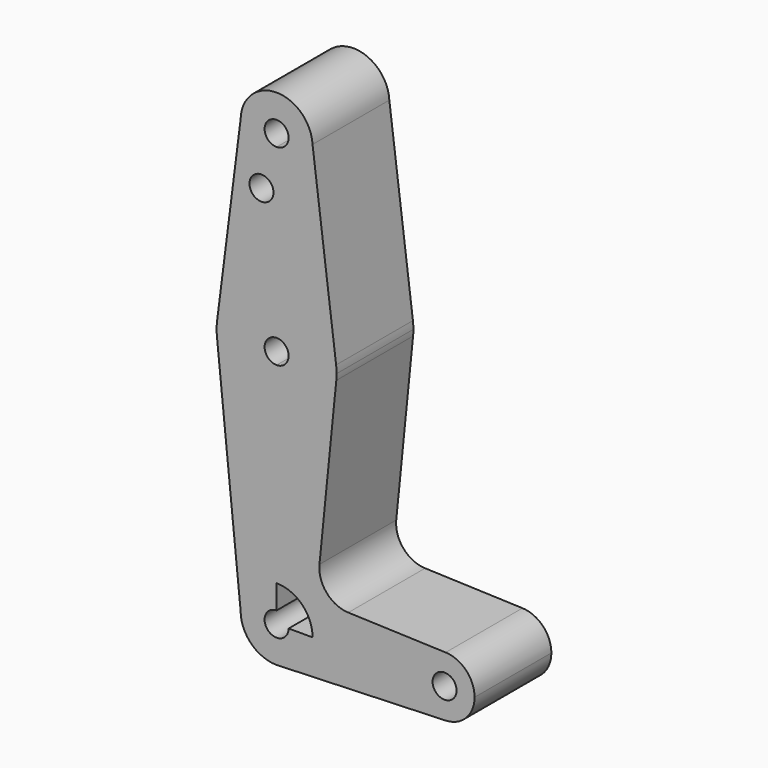
from build123d import *

# Parameters (mm, degrees)
F0_R     = 3.175
F1_DEPTH = 25.4


with BuildPart() as f1:
    # F0 (on Front) → F1 (new body)
    with BuildSketch(Plane.XZ):
        with BuildLine():
            Line((9.525, 0), (3.175, 0))
            ThreePointArc((3.175, 0), (-2.245064, -2.245064), (0, 3.175))
            Line((0, 3.175), (0, 9.525))
            ThreePointArc((0, 9.525), (-6.735192, 6.735192), (-9.525, 0))
            ThreePointArc((-9.525, 0), (-6.735192, -6.735192), (0, -9.525))
            Line((0, -9.525), (0.677344, -9.500886))
            ThreePointArc((0.677344, -9.500886), (6.970557, -6.491299), (9.525, 0))
        make_face()
        with BuildLine():
            ThreePointArc((0, 9.525), (6.735192, 6.735192), (9.525, 0))
            Line((9.525, 0), (36.5125, 0))
            ThreePointArc((36.5125, 0), (38.93809, 5.711633), (44.732405, 7.932475))
            Line((44.732405, 7.932475), (18.968326, 8.849706))
            ThreePointArc((18.968326, 8.849706), (13.261203, 11.567463), (11.340834, 17.589892))
            Line((11.340834, 17.589892), (15.794203, 61.90038))
            ThreePointArc((15.794203, 61.90038), (10.644756, 51.7227), (0, 47.625))
            Line((0, 47.625), (0, 9.525))
        make_face()
        with BuildLine():
            Line((36.5125, 0), (9.525, 0))
            ThreePointArc((9.525, 0), (6.970557, -6.491299), (0.677344, -9.500886))
            Line((0.677344, -9.500886), (44.732405, -7.932475))
            ThreePointArc((44.732405, -7.932475), (38.93809, -5.711633), (36.5125, 0))
        make_face()
        with BuildLine():
            ThreePointArc((-9.525, 0), (-6.735192, 6.735192), (0, 9.525))
            Line((0, 9.525), (0, 47.625))
            ThreePointArc((0, 47.625), (-10.644756, 51.7227), (-15.794203, 61.90038))
            Line((-15.794203, 61.90038), (-9.525, 0))
        make_face()
        with BuildLine():
            ThreePointArc((47.625, 0), (44.45, 3.175), (41.275, 0))
            ThreePointArc((41.275, 0), (44.45, -3.175), (47.625, 0))
        make_face()
        with BuildLine():
            ThreePointArc((44.732405, 7.932475), (38.93809, 5.711633), (36.5125, 0))
            ThreePointArc((36.5125, 0), (38.93809, -5.711633), (44.732405, -7.932475))
            ThreePointArc((44.732405, -7.932475), (50.161633, -5.51191), (52.3875, 0))
            ThreePointArc((52.3875, 0), (50.161633, 5.51191), (44.732405, 7.932475))
        make_face()
        with BuildLine():
            ThreePointArc((47.625, 0), (44.45, -3.175), (41.275, 0))
            ThreePointArc((41.275, 0), (44.45, 3.175), (47.625, 0))
        make_face(mode=Mode.SUBTRACT)
        with BuildLine():
            ThreePointArc((0, -9.525), (0.338886, -9.51897), (0.677344, -9.500886))
            Line((0.677344, -9.500886), (0, -9.525))
        make_face()
        with BuildLine():
            Line((0, 60.325), (0, 47.625))
            ThreePointArc((0, 47.625), (10.644756, 51.7227), (15.794203, 61.90038))
            ThreePointArc((15.794203, 61.90038), (15.854788, 62.699171), (15.875, 63.5))
            ThreePointArc((15.875, 63.5), (15.843601, 64.497968), (15.749527, 65.491988))
            ThreePointArc((15.749527, 65.491988), (10.497448, 75.408787), (0, 79.375))
            Line((0, 79.375), (0, 66.675))
            ThreePointArc((0, 66.675), (2.245064, 65.745064), (3.175, 63.5))
            ThreePointArc((3.175, 63.5), (2.245064, 61.254936), (0, 60.325))
        make_face()
        with BuildLine():
            ThreePointArc((-15.794203, 61.90038), (-10.644756, 51.7227), (0, 47.625))
            Line((0, 47.625), (0, 60.325))
            ThreePointArc((0, 60.325), (-3.175, 63.5), (0, 66.675))
            Line((0, 66.675), (0, 79.375))
            ThreePointArc((0, 79.375), (-10.494285, 75.411574), (-15.748467, 65.500352))
            ThreePointArc((-15.748467, 65.500352), (-15.873719, 63.701667), (-15.794203, 61.90038))
        make_face()
        with BuildLine():
            Line((-9.522549, 114.516056), (-15.748467, 65.500352))
            ThreePointArc((-15.748467, 65.500352), (-10.494285, 75.411574), (0, 79.375))
            Line((0, 79.375), (0, 104.775))
            ThreePointArc((0, 104.775), (-6.811151, 107.641633), (-9.522549, 114.516056))
        make_face()
        with Locations((-4.007924, 100.266926)):
            Circle(F0_R, mode=Mode.SUBTRACT)
        with BuildLine():
            Line((0, 104.775), (0, 79.375))
            ThreePointArc((0, 79.375), (10.497448, 75.408787), (15.749527, 65.491988))
            Line((15.749527, 65.491988), (9.510975, 114.816704))
            ThreePointArc((9.510975, 114.816704), (9.521493, 114.558447), (9.525, 114.3))
            ThreePointArc((9.525, 114.3), (6.735192, 107.564808), (0, 104.775))
        make_face()
        with BuildLine():
            ThreePointArc((3.175, 114.3), (-2.245064, 116.545064), (0, 111.125))
            ThreePointArc((0, 111.125), (2.245064, 112.054936), (3.175, 114.3))
        make_face()
        with BuildLine():
            ThreePointArc((9.510975, 114.816704), (-0.150436, 123.823812), (-9.522549, 114.516056))
            ThreePointArc((-9.522549, 114.516056), (-6.811151, 107.641633), (0, 104.775))
            ThreePointArc((0, 104.775), (6.735192, 107.564808), (9.525, 114.3))
            ThreePointArc((9.525, 114.3), (9.521493, 114.558447), (9.510975, 114.816704))
        make_face()
        with BuildLine():
            ThreePointArc((3.175, 114.3), (2.245064, 112.054936), (0, 111.125))
            ThreePointArc((0, 111.125), (-2.245064, 116.545064), (3.175, 114.3))
        make_face(mode=Mode.SUBTRACT)
    extrude(amount=F1_DEPTH)


solid = f1.part
